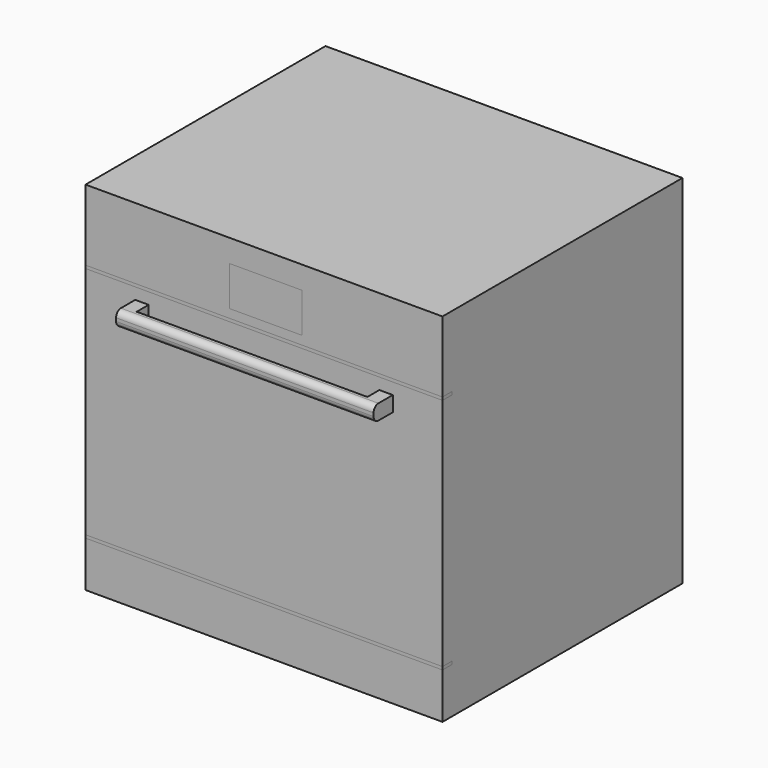
from build123d import *

# Parameters (mm, degrees)
F0_W     = 595
F0_H     = 390.6140801311
F0_H_2   = 118.1821537018
F0_W_2   = 120.7290142775
F0_H_3   = 66.1135315895
F0_H_4   = 76.2037661672
F0_H_5   = 5
F1_DEPTH = 500
F2_DEPTH = 20
F5_W     = 22.3901420832
F5_H     = 25.404214859
F6_DEPTH = 25
F7_W     = 15
F7_H     = 25.404214859
F8_DEPTH = 429.2594653368
F9_R     = 10


with BuildPart() as f1:
    # F0 (on Front) → F1 (new body)
    with BuildSketch(Plane.XZ):
        with Locations((297.5, 276.5108062327)):
            Rectangle(F0_W, F0_H)
        with Locations((297.5, 535.9089231491)):
            Rectangle(F0_W, F0_H_2)
        with Locations((300.05774647, 524.1899192333)):
            Rectangle(F0_W_2, F0_H_3, mode=Mode.SUBTRACT)
        with Locations((297.5, 38.1018830836)):
            Rectangle(F0_W, F0_H_4)
        with Locations((300.05774647, 524.1899192333)):
            Rectangle(F0_W_2, F0_H_3)
        with Locations((297.5, 78.7037661672)):
            Rectangle(F0_W, F0_H_5)
        with Locations((297.5, 474.3178462982)):
            Rectangle(F0_W, F0_H_5)
    extrude(amount=-F1_DEPTH)


with BuildPart() as f2:
    # F0 (on Front) → F2 (new body)
    with BuildSketch(Plane.XZ):
        with Locations((300.05774647, 524.1899192333)):
            Rectangle(F0_W_2, F0_H_3)
    extrude(amount=-F2_DEPTH)


with BuildPart() as f2b:
    # F0 (on Front) → F2, piece 2 (new body)
    with BuildSketch(Plane.XZ):
        with Locations((297.5, 474.3178462982)):
            Rectangle(F0_W, F0_H_5)
    extrude(amount=-F2_DEPTH)


with BuildPart() as f2c:
    # F0 (on Front) → F2, piece 3 (new body)
    with BuildSketch(Plane.XZ):
        with Locations((297.5, 78.7037661672)):
            Rectangle(F0_W, F0_H_5)
    extrude(amount=-F2_DEPTH)


with BuildPart() as f1_1:
    add(f1.part)

    # F3: cut F2, F2b, F2c
    add(f2.part, mode=Mode.SUBTRACT)
    add(f2b.part, mode=Mode.SUBTRACT)
    add(f2c.part, mode=Mode.SUBTRACT)

    # F5 (on face) → F6 (join)
    with BuildSketch(Plane.XZ):
        with Locations((94.0653383732, 440.1007890701)):
            Rectangle(F5_W, F5_H)
        with Locations((500.9346616268, 440.1007890701)):
            Rectangle(F5_W, F5_H)
    extrude(amount=F6_DEPTH)

    # F7 (on face) → F8 (join, through all)
    with BuildSketch(Plane(origin=(82.8702673316, 0, 0), x_dir=(0, -1, 0), z_dir=(-1, 0, 0))):
        with Locations((32.5, 440.1007890701)):
            Rectangle(F7_W, F7_H)
    extrude(amount=-F8_DEPTH)

    # F9
    f9_edges = [f1_1.edges().sort_by_distance(p)[0] for p in [
        (297.5, -40, 452.802896),
        (297.5, -40, 427.398682),
    ]]
    fillet(f9_edges, radius=F9_R)


solid = Compound([f2.part, f2b.part, f2c.part, f1_1.part])
